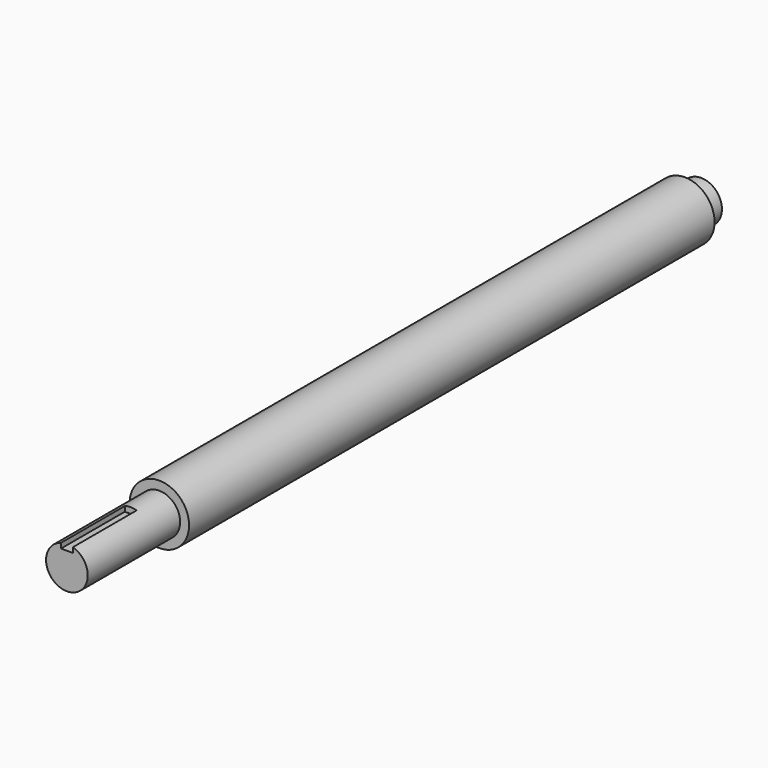
from build123d import *

# Parameters (mm, degrees)
F0_R     = 25
F1_DEPTH = 665.8
F2_R     = 25
F2_R_2   = 17.5
F3_DEPTH = 97
F4_R     = 25
F4_R_2   = 17.5
F5_DEPTH = 17
F7_DEPTH = 67


with BuildPart() as f1:
    # F0 (on Front) → F1 (new body)
    with BuildSketch(Plane.XZ):
        with Locations((-99.979594, 13.985418)):
            Circle(F0_R)
    extrude(amount=F1_DEPTH)

    # F2 (on face) → F3 (cut)
    with BuildSketch(Plane.XZ.offset(665.8)):
        with Locations((-99.979594, 13.985418)):
            Circle(F2_R)
        with Locations((-99.979594, 13.985418)):
            Circle(F2_R_2, mode=Mode.SUBTRACT)
    extrude(amount=-F3_DEPTH, mode=Mode.SUBTRACT)

    # F4 (on face) → F5 (cut)
    with BuildSketch(Plane.XZ):
        with Locations((-99.979594, 13.985418)):
            Circle(F4_R)
        with Locations((-99.905901, 14.123433)):
            Circle(F4_R_2, mode=Mode.SUBTRACT)
    extrude(amount=F5_DEPTH, mode=Mode.SUBTRACT)

    # F6 (on face) → F7 (cut)
    with BuildSketch(Plane.XZ.offset(665.8)):
        with BuildLine():
            Line((-104.960215, 30.756418), (-104.960215, 26.485418))
            Line((-104.960215, 26.485418), (-94.960215, 26.485418))
            Line((-94.960215, 26.485418), (-94.960215, 30.750138))
            ThreePointArc((-94.960215, 30.750138), (-99.910954, 31.485283), (-104.867307, 30.788997))
            ThreePointArc((-104.867307, 30.788997), (-104.913788, 30.772784), (-104.960215, 30.756418))
        make_face()
    extrude(amount=-F7_DEPTH, mode=Mode.SUBTRACT)


solid = f1.part
